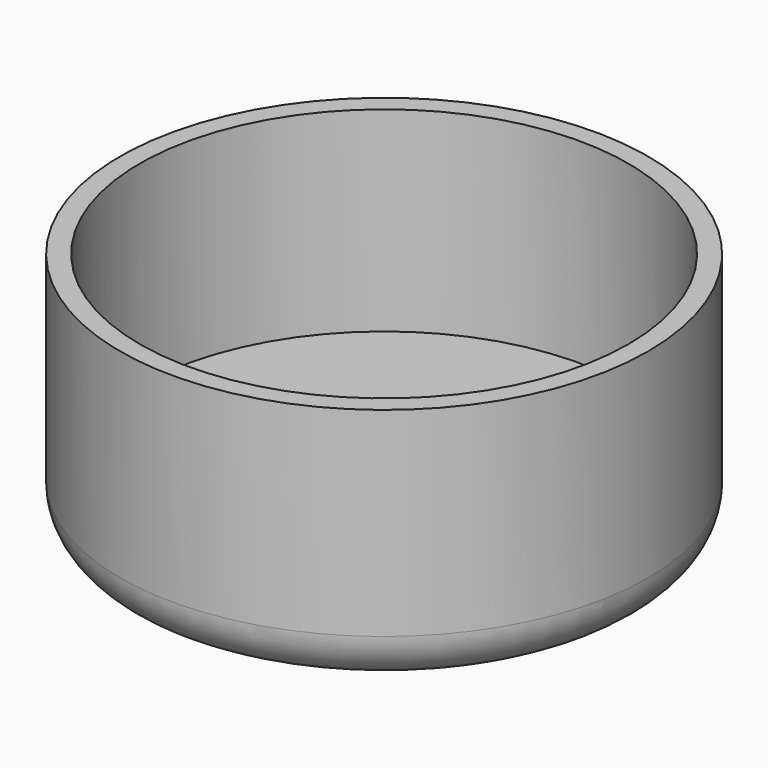
from build123d import *

# Parameters (mm, degrees)
F0_R     = 27
F5_DEPTH = 25.4
F1_R     = 25
F2_DEPTH = 20
F3_R     = 5
F4_W     = 5
F4_H     = 5
F6_DEPTH = 3


with BuildPart() as f5:
    # F0 (on Top) → F5 (new body)
    with BuildSketch(Plane.XY):
        Circle(F0_R)
    extrude(amount=F5_DEPTH)

    # F1 (on face) → F2 (cut)
    with BuildSketch(Plane.XY.offset(25.4)):
        Circle(F1_R)
    extrude(amount=-F2_DEPTH, mode=Mode.SUBTRACT)

    # F3
    f3_edges = [f5.edges().sort_by_distance(p)[0] for p in [
        (-27, 0, 0),
    ]]
    fillet(f3_edges, radius=F3_R)

    # F4 (on face) → F6 (join)
    with BuildSketch(Plane.XY.offset(5.4)):
        Rectangle(F4_W, F4_H)
    extrude(amount=F6_DEPTH)


solid = f5.part
